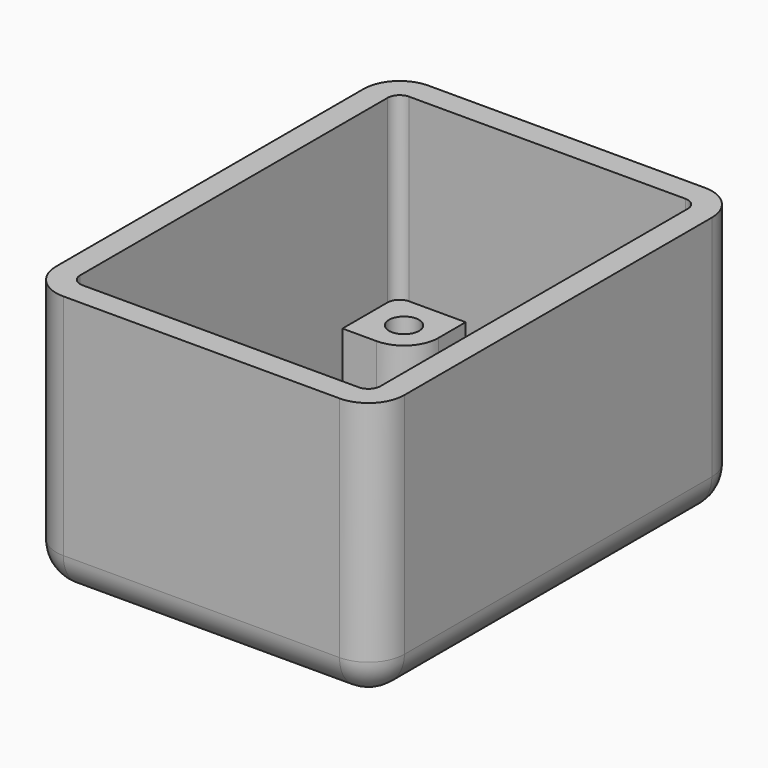
from build123d import *

# Parameters (mm, degrees)
SKETCH_W        = 29
SKETCH_H        = 38
PAD_DEPTH       = 22
SKETCH001_W     = 25
SKETCH001_H     = 34
POCKET_DEPTH    = 20
SKETCH002_W     = 5.7
SKETCH002_H     = 5.7
PAD001_DEPTH    = 5
SKETCH003_R     = 1.25
POCKET001_DEPTH = 5
FILLET_R        = 2.85
FILLET001_R     = 1
FILLET002_R     = 3


with BuildPart() as part:
    # Sketch → Pad (new body)
    with BuildSketch(Plane.XY):
        Rectangle(SKETCH_W, SKETCH_H)
    extrude(amount=PAD_DEPTH)

    # Sketch001 (on DatumPlane) → Pocket (cut)
    with BuildSketch(Plane.XY.offset(22)):
        Rectangle(SKETCH001_W, SKETCH001_H)
    extrude(amount=-POCKET_DEPTH, mode=Mode.SUBTRACT)

    # Sketch002 (on DatumPlane) → Pad001 (join)
    with BuildSketch(Plane.XY.offset(2)):
        with Locations((-9.65, 14.15)):
            Rectangle(SKETCH002_W, SKETCH002_H)
        with Locations((9.65, 14.15)):
            Rectangle(SKETCH002_W, SKETCH002_H)
        with Locations((9.65, -14.15)):
            Rectangle(SKETCH002_W, SKETCH002_H)
        with Locations((-9.65, -14.15)):
            Rectangle(SKETCH002_W, SKETCH002_H)
    extrude(amount=PAD001_DEPTH)

    # Sketch003 (on DatumPlane) → Pocket001 (cut)
    with BuildSketch(Plane.XY.offset(7)):
        with Locations((-9.65, 14.15)):
            Circle(SKETCH003_R)
        with Locations((9.65, 14.15)):
            Circle(SKETCH003_R)
        with Locations((9.65, -14.15)):
            Circle(SKETCH003_R)
        with Locations((-9.65, -14.15)):
            Circle(SKETCH003_R)
    extrude(amount=-POCKET001_DEPTH, mode=Mode.SUBTRACT)

    # Fillet
    fillet_edges = [part.edges().sort_by_distance(p)[0] for p in [
        (6.8, 11.3, 4.5),
        (-6.8, 11.3, 4.5),
        (-6.8, -11.3, 4.5),
        (6.8, -11.3, 4.5),
    ]]
    fillet(fillet_edges, radius=FILLET_R)

    # Fillet001
    fillet001_edges = [part.edges().sort_by_distance(p)[0] for p in [
        (-12.5, 0, 2),
        (0, 17, 2),
        (12.5, 0, 2),
        (0, -17, 2),
        (-12.5, 17, 14.5),
        (-12.5, -17, 14.5),
        (12.5, 17, 14.5),
        (12.5, -17, 14.5),
    ]]
    fillet(fillet001_edges, radius=FILLET001_R)

    # Fillet002
    fillet002_edges = [part.edges().sort_by_distance(p)[0] for p in [
        (0, 19, 0),
        (14.5, 19, 11),
        (14.5, 0, 0),
        (14.5, -19, 11),
        (0, -19, 0),
        (-14.5, -19, 11),
        (-14.5, 0, 0),
        (-14.5, 19, 11),
    ]]
    fillet(fillet002_edges, radius=FILLET002_R)


solid = part.part
